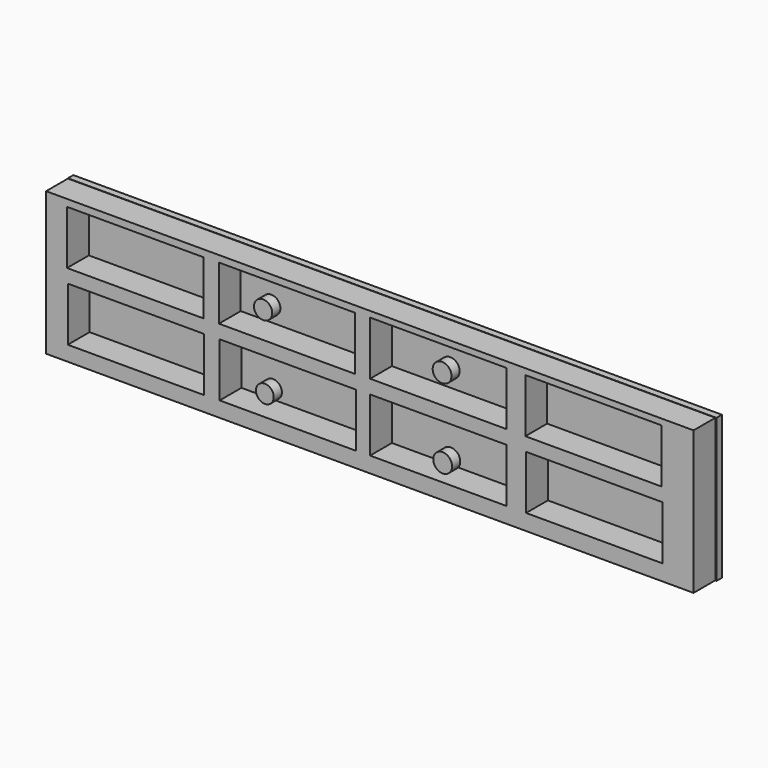
from build123d import *

# Parameters (mm, degrees)
F0_W     = 120.65
F0_H     = 35.56
F1_DEPTH = 25.4
F3_D     = 25.4
F4_R     = 6.8023832056
F5_DEPTH = 33.02
F4_R_2   = 6.6337025735
F4_R_3   = 7.0075257305
F4_R_4   = 7.0075264236
F6_W     = 101.6
F6_H     = 40.132
F7_DEPTH = 25.4
F8_W     = 483.4869205952
F8_H     = 107.0168726146
F9_DEPTH = 5.08


with BuildPart() as f1:
    # F0 (on Front) → F1 (new body)
    with BuildSketch(Plane.XZ):
        with Locations((-211.6008736181, 29.5644977273)):
            Rectangle(F0_W, F0_H)
        with Locations((150.3491263819, 29.5644977273)):
            Rectangle(F0_W, F0_H)
        Polygon((-30.6258736181, 47.3444977273), (-151.2758736181, 47.3444977273), (-151.2758736181, 11.7844977273), (-151.0068327188, 11.7844977273), (-30.6258736181, 11.7844977273), align=None)
        Polygon((-151.2758736181, 11.7844977273), (-271.9258736181, 11.7844977273), (-271.9258736181, -23.7755022727), (-151.4414250851, -23.7755022727), (-151.2758736181, -23.7755022727), align=None)
        with Locations((29.6991263819, 29.5644977273)):
            Rectangle(F0_W, F0_H)
        Polygon((-151.4414250851, -23.7755022727), (-271.9258736181, -23.7755022727), (-271.9258736181, -59.3355022727), (-151.2758736181, -59.3355022727), (-151.2758736181, -23.7755022727), align=None)
        Polygon((210.6741263819, 11.7844977273), (90.0241263819, 11.7844977273), (90.0241263819, -23.7755022727), (90.0241263819, -59.3355022727), (210.6741263819, -59.3355022727), align=None)
        Polygon((89.7550880909, -23.7755022727), (-30.6258736181, -23.7755022727), (-30.6258736181, -59.3355022727), (90.0241263819, -59.3355022727), (90.0241263819, -23.7755022727), align=None)
        Polygon((-30.6388696337, -23.7755022727), (-151.2758736181, -23.7755022727), (-151.2758736181, -59.3355022727), (-30.6258736181, -59.3355022727), (-30.6258736181, -23.7755022727), align=None)
        Polygon((-151.0068327188, 11.7844977273), (-151.2758736181, 11.7844977273), (-151.2758736181, -23.7755022727), (-30.6388696337, -23.7755022727), (-30.6258736181, 11.7844977273), align=None)
        Polygon((90.0241263819, 11.7844977273), (-30.6258736181, 11.7844977273), (-30.6258736181, -23.7755022727), (89.7550880909, -23.7755022727), (90.0241263819, -23.7755022727), align=None)
        Polygon((-30.6258736181, -23.7755022727), (-30.6258736181, 11.7844977273), (-30.6388696337, -23.7755022727), align=None)
    extrude(amount=F1_DEPTH)

    # F3 (through all)
    with Locations(Plane(origin=(0, 0, 0), x_dir=(1, 0, 0), z_dir=(0, 1, 0))):
        with Locations((-103.6367118359, -26.6269370914), (-103.2021194696, 27.6966020465), (28.912730515, -29.2344670743), (28.912730515, 29.8695452511)):
            Hole(F3_D / 2)


with BuildPart() as f5:
    # F4 (on Front) → F5 (new body)
    with BuildSketch(Plane.XZ):
        with Locations((-104.0713042021, 27.2505022585)):
            Circle(F4_R)
    extrude(amount=F5_DEPTH)


with BuildPart() as f5b:
    # F4 (on Front) → F5, piece 2 (new body)
    with BuildSketch(Plane.XZ):
        with Locations((-102.767534554, -27.5076255202)):
            Circle(F4_R_2)
    extrude(amount=F5_DEPTH)


with BuildPart() as f5c:
    # F4 (on Front) → F5, piece 3 (new body)
    with BuildSketch(Plane.XZ):
        with Locations((29.3473172933, 29.4234454632)):
            Circle(F4_R_3)
    extrude(amount=F5_DEPTH)


with BuildPart() as f5d:
    # F4 (on Front) → F5, piece 4 (new body)
    with BuildSketch(Plane.XZ):
        with Locations((29.7819040716, -29.6805687249)):
            Circle(F4_R_4)
    extrude(amount=F5_DEPTH)


with BuildPart() as f7_tool:
    # F6 (on Front) → F7 (new body)
    with BuildSketch(Plane.XZ):
        with Locations((-92.2905808866, 22.3666099455)):
            Rectangle(F6_W, F6_H)
        with Locations((-91.7451425076, -27.8205318)):
            Rectangle(F6_W, F6_H)
        with Locations((20.3878538132, 22.8883219507)):
            Rectangle(F6_W, F6_H)
        with Locations((20.3878538132, -27.5612100404)):
            Rectangle(F6_W, F6_H)
        with Locations((136.1087430269, 22.7851342034)):
            Rectangle(F6_W, F6_H)
        with Locations((136.6541814059, -27.4020075422)):
            Rectangle(F6_W, F6_H)
        with Locations((-205.5057566613, 22.0837430652)):
            Rectangle(F6_W, F6_H)
        with Locations((-204.9603182822, -28.1033986803)):
            Rectangle(F6_W, F6_H)
    extrude(amount=F7_DEPTH)


with BuildPart() as f1_1:
    add(f1.part)

    # F7: cut by f7_tool
    add(f7_tool.part, mode=Mode.SUBTRACT)

    # F8 (on Front) → F9 (join)
    with BuildSketch(Plane.XZ):
        with Locations((-30.2356928587, -5.956241861)):
            Rectangle(F8_W, F8_H)
    extrude(amount=F9_DEPTH)


with BuildPart() as f5_1:
    add(f5.part)

    # F7: cut by f7_tool
    add(f7_tool.part, mode=Mode.SUBTRACT)


with BuildPart() as f5b_1:
    add(f5b.part)

    # F7: cut by f7_tool
    add(f7_tool.part, mode=Mode.SUBTRACT)


with BuildPart() as f5c_1:
    add(f5c.part)

    # F7: cut by f7_tool
    add(f7_tool.part, mode=Mode.SUBTRACT)


with BuildPart() as f5d_1:
    add(f5d.part)

    # F7: cut by f7_tool
    add(f7_tool.part, mode=Mode.SUBTRACT)


solid = Compound([f1_1.part, f5_1.part, f5b_1.part, f5c_1.part, f5d_1.part])
